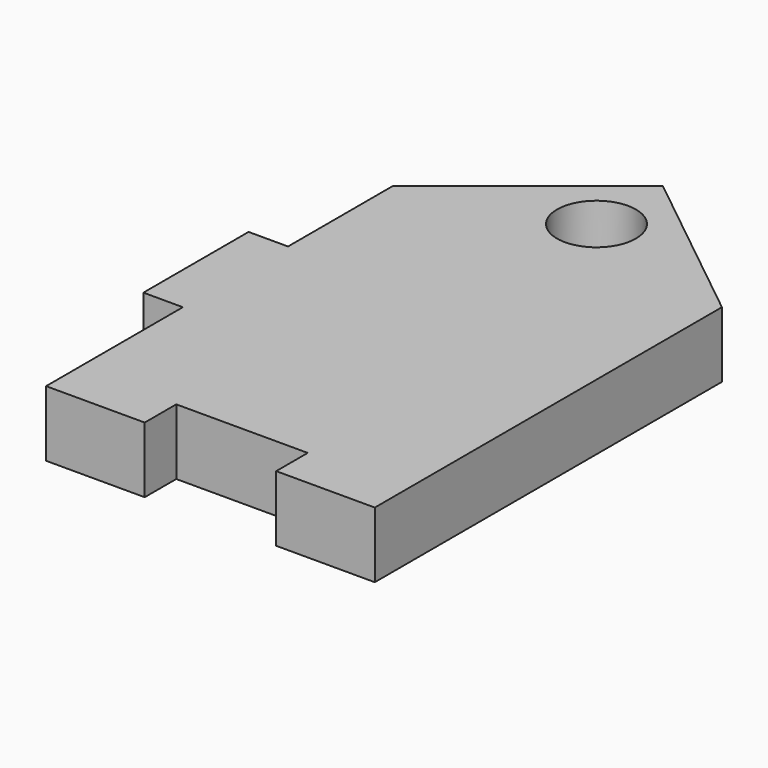
from build123d import *

# Parameters (mm, degrees)
F0_R     = 3
F1_DEPTH = 5


with BuildPart() as f1:
    # F0 (on Top) → F1 (new body)
    with BuildSketch(Plane.XY):
        Polygon((5, -36.700348), (12.5, -36.700348), (12.5, -3.700348), (-12.5, -3.700348), (-12.5, -13.700348), (-15.5, -13.700348), (-15.5, -23.700348), (-12.5, -23.700348), (-12.5, -36.700348), (-5, -36.700348), (-5, -33.700348), (5, -33.700348), align=None)
        Polygon((-12.5, -3.700348), (12.5, -3.700348), (0, 6.299652), align=None)
        Circle(F0_R, mode=Mode.SUBTRACT)
    extrude(amount=F1_DEPTH)


solid = f1.part
